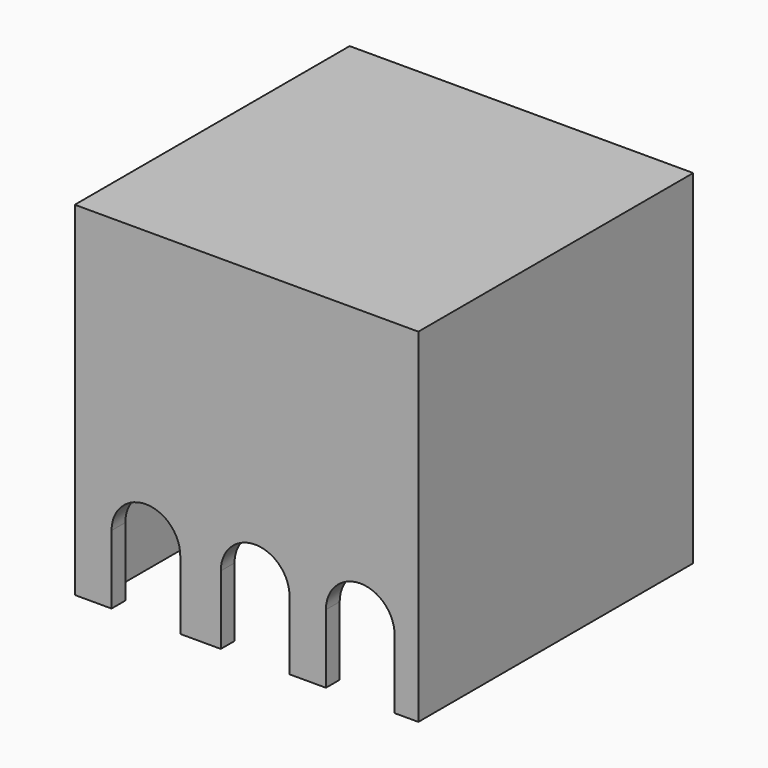
from build123d import *

# Parameters (mm, degrees)
F0_W     = 50.8
F0_H     = 50.8
F1_DEPTH = 50.8
F2_T     = -2.54
F3_W     = 10.16
F3_H     = 10.16
F4_DEPTH = 50.8


with BuildPart() as f1:
    # F0 (on Front) → F1 (new body)
    with BuildSketch(Plane.XZ):
        Rectangle(F0_W, F0_H)
    extrude(amount=F1_DEPTH)

    # F2
    f2_openings = [f1.faces().sort_by_distance(p)[0] for p in [
        (0, -25.4, -25.4),
    ]]
    offset(amount=F2_T, openings=f2_openings)

    # F3 (on face) → F4 (cut)
    with BuildSketch(Plane.XZ.offset(50.8)):
        with Locations((-14.884399, -20.32)):
            Rectangle(F3_W, F3_H)
        with BuildLine():
            ThreePointArc((-9.804399, -15.24), (-14.884399, -10.16), (-19.964399, -15.24))
            Line((-19.964399, -15.24), (-9.804399, -15.24))
        make_face()
        with Locations((1.270002, -20.32)):
            Rectangle(F3_W, F3_H)
        with BuildLine():
            ThreePointArc((6.350002, -15.24), (1.270002, -10.16), (-3.809998, -15.24))
            Line((-3.809998, -15.24), (6.350002, -15.24))
        make_face()
        with Locations((16.8148, -20.32)):
            Rectangle(F3_W, F3_H)
        with BuildLine():
            ThreePointArc((21.8948, -15.24), (16.8148, -10.16), (11.7348, -15.24))
            Line((11.7348, -15.24), (21.8948, -15.24))
        make_face()
    extrude(amount=-F4_DEPTH, mode=Mode.SUBTRACT)


solid = f1.part
